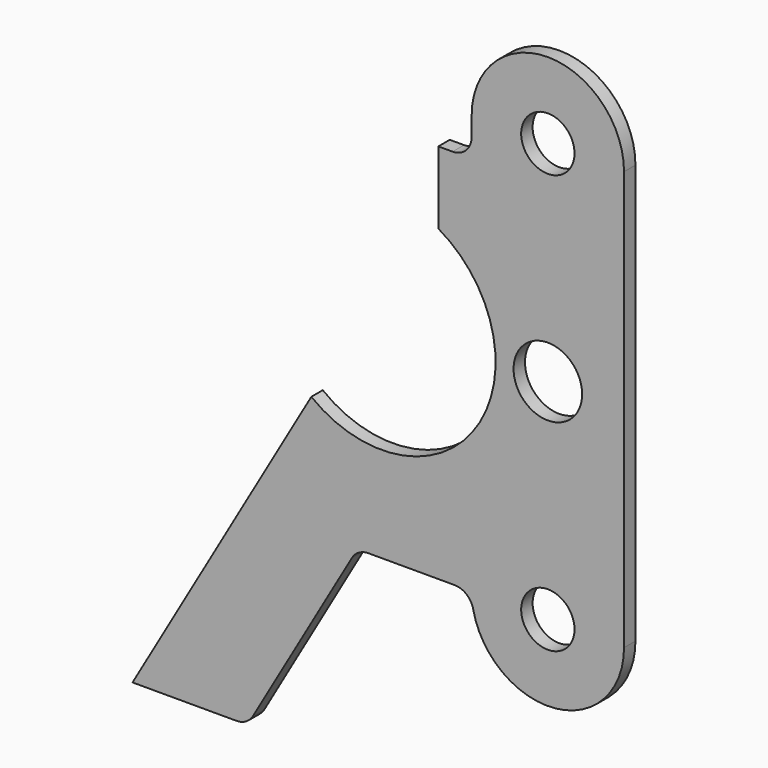
from build123d import *

# Parameters (mm, degrees)
F0_R     = 8.89
F0_R_2   = 11.43
F1_DEPTH = 4.7625


with BuildPart() as f1:
    # F0 (on Front) → F1 (new body)
    with BuildSketch(Plane.XZ):
        with BuildLine():
            Line((47.11208, 87.262943), (42.349013, 87.262943))
            Line((42.349013, 87.262943), (42.349013, 63.132943))
            ThreePointArc((42.349013, 63.132943), (54.982151, 8.888606), (0, 0))
            Line((0, 0), (-59.603945, -103.237061))
            Line((-59.603945, -103.237061), (-24.965839, -103.237061))
            ThreePointArc((-24.965839, -103.237061), (-21.790839, -102.386322), (-19.466577, -100.062061))
            Line((-19.466577, -100.062061), (13.528993, -42.912057))
            ThreePointArc((13.528993, -42.912057), (15.853254, -40.587796), (19.028254, -39.737057))
            Line((19.028254, -39.737057), (47.75356, -39.737057))
            ThreePointArc((47.75356, -39.737057), (51.769653, -41.168368), (53.975264, -44.817057))
            ThreePointArc((53.975264, -44.817057), (81.415007, -65.008435), (104.26208, -39.737057))
            Line((104.26208, -39.737057), (104.26208, 99.962943))
            ThreePointArc((104.26208, 99.962943), (78.86208, 125.362943), (53.46208, 99.962943))
            Line((53.46208, 99.962943), (53.46208, 93.612943))
            ThreePointArc((53.46208, 93.612943), (51.602208, 89.122815), (47.11208, 87.262943))
        make_face()
        with Locations((78.86208, -39.737057)):
            Circle(F0_R, mode=Mode.SUBTRACT)
        with Locations((78.86208, 30.112943)):
            Circle(F0_R_2, mode=Mode.SUBTRACT)
        with Locations((78.86208, 99.962943)):
            Circle(F0_R, mode=Mode.SUBTRACT)
    extrude(amount=F1_DEPTH)


solid = f1.part
